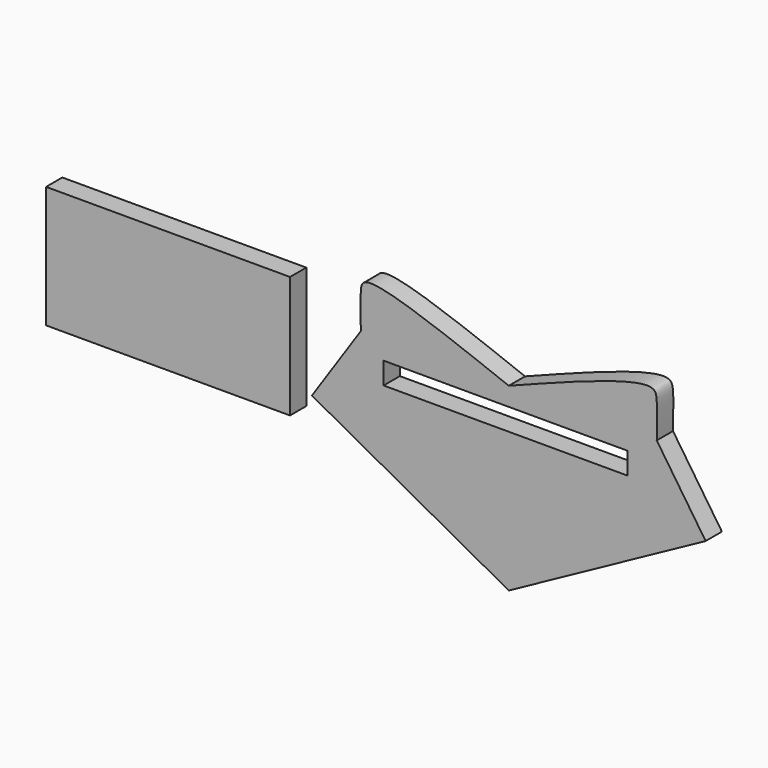
from build123d import *

# Parameters (mm, degrees)
F0_W     = 76.2
F0_H     = 6.8358847338
F1_DEPTH = 6.35
F0_H_2   = 38.1


with BuildPart() as f1:
    # F0 (on Front) → F1 (new body)
    with BuildSketch(Plane.XZ):
        with BuildLine():
            add(Edge.make_bspline(
                [(46.2221666575, 48.4449205091), (46.3383978199, 52.6665628684), (46.5176823791, 59.1783732528), (45.0035869892, 65.8508295622), (19.8708681973, 56.1303195581), (0, 48.4449205091)],
                knots=[0, 0, 0, 0, 0.2784649622, 0.429527392, 1, 1, 1, 1], degree=3))
            Line((0, 48.4449205091), (46.2221666575, 48.4449205091))
        make_face()
        Polygon((46.2221666575, 48.4449205091), (0, 48.4449205091), (-46.2221666575, 48.4449205091), (-61.5021972923, 25.7431598613), (0, -7.8729035217), (61.5021972923, 25.7431598613), align=None)
        with Locations((-1.0052731635, 39.215762071)):
            Rectangle(F0_W, F0_H, mode=Mode.SUBTRACT)
        with BuildLine():
            Line((-46.2221666575, 48.4449205091), (0, 48.4449205091))
            add(Edge.make_bspline(
                [(-46.2221666575, 48.4449205091), (-46.3383978199, 52.6665628684), (-46.5176823791, 59.1783732528), (-45.0035869892, 65.8508295622), (-19.8708681973, 56.1303195581), (0, 48.4449205091)],
                knots=[0, 0, 0, 0, 0.2784649622, 0.429527392, 1, 1, 1, 1], degree=3))
        make_face()
    extrude(amount=F1_DEPTH)


with BuildPart() as f1b:
    # F0 (on Front) → F1, piece 2 (new body)
    with BuildSketch(Plane.XZ):
        with Locations((-106.4413082838, 37.0880530655)):
            Rectangle(F0_W, F0_H_2)
    extrude(amount=F1_DEPTH)


solid = Compound([f1.part, f1b.part])
